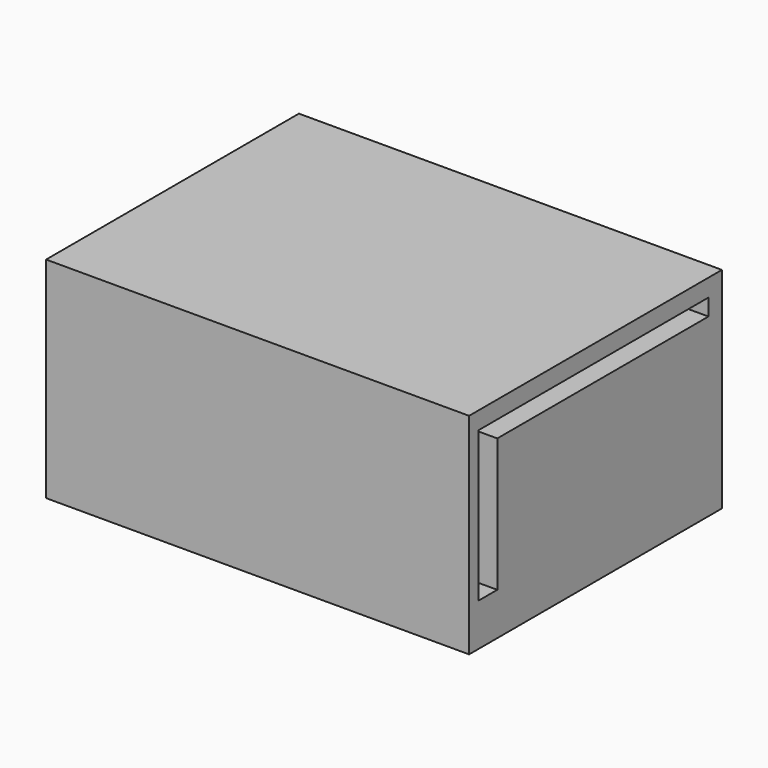
from build123d import *

# Parameters (mm, degrees)
F0_W     = 151.777678
F0_H     = 151.339829
F1_DEPTH = 100.584
F2_W     = 151.339829
F2_H     = 100.584
F3_DEPTH = 25.4
F4_W     = 151.339829
F4_H     = 100.584
F5_DEPTH = 25.4


with BuildPart() as f1:
    # F0 (on Top) → F1 (new body)
    with BuildSketch(Plane.XY):
        with Locations((-0.823509, 1.426369)):
            Rectangle(F0_W, F0_H)
    extrude(amount=F1_DEPTH)

    # F2 (on face) → F3 (join)
    with BuildSketch(Plane.YZ.offset(75.06533)):
        with Locations((1.426369, 50.292)):
            Rectangle(F2_W, F2_H)
        Polygon((-68.466783, 20.36312), (-68.466783, 84.190369), (-68.466783, 92.207313), (-57.366394, 92.207313), (69.054723, 92.207313), (69.054723, 84.190369), (-57.366394, 84.190369), (-57.366394, 20.36312), align=None, mode=Mode.SUBTRACT)
    extrude(amount=F3_DEPTH)

    # F4 (on face) → F5 (join)
    with BuildSketch(Plane(origin=(-76.712348, 0, 0), x_dir=(0, -1, 0), z_dir=(-1, 0, 0))):
        with Locations((-1.426369, 50.292)):
            Rectangle(F4_W, F4_H)
        Polygon((56.951661, 92.207313), (67.435369, 92.207313), (67.435369, 84.498711), (67.435369, 13.579548), (56.951661, 13.579548), (56.951661, 84.498711), (-67.927733, 84.498711), (-67.927733, 92.207313), align=None, mode=Mode.SUBTRACT)
    extrude(amount=F5_DEPTH)


solid = f1.part
